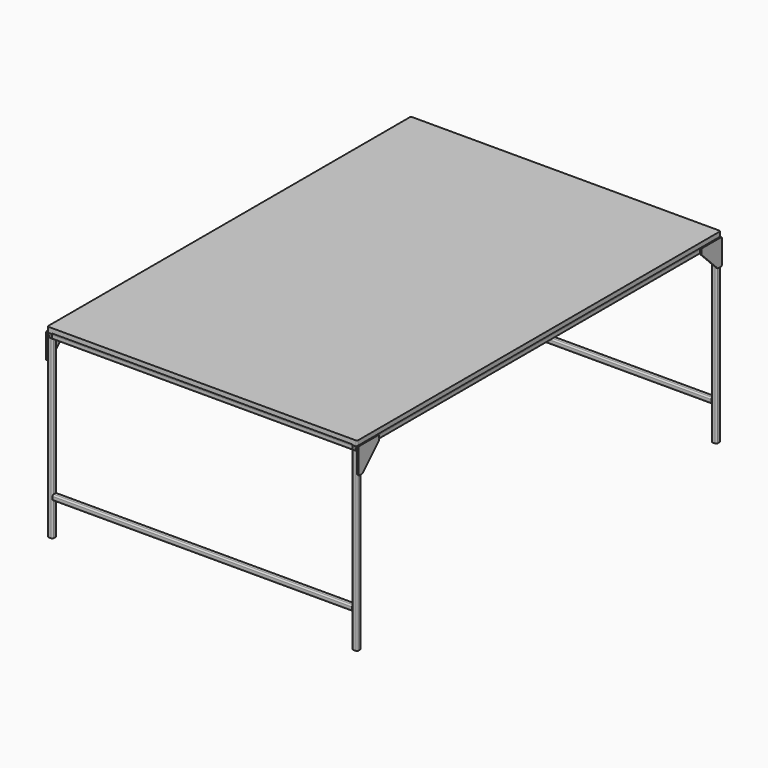
from build123d import *

# Parameters (mm, degrees)
F1_DEPTH  = 880
F4_DEPTH  = 1160
F8_DEPTH  = 680
F13_DEPTH = 5
F14_R     = 5
F17_DEPTH = 5
F18_R     = 5
F21_DEPTH = 850
F23_W     = 1200
F23_H     = 1760
F24_DEPTH = 18
F25_R     = 5


with BuildPart() as f1:
    # F0 (on Front) → F1 (new body, symmetric)
    with BuildSketch(Plane.XZ):
        with BuildLine():
            Line((595, 20), (585, 20))
            ThreePointArc((585, 20), (581.464466, 18.535534), (580, 15))
            Line((580, 15), (580, 5))
            ThreePointArc((580, 5), (581.464466, 1.464466), (585, 0))
            Line((585, 0), (595, 0))
            ThreePointArc((595, 0), (598.535534, 1.464466), (600, 5))
            Line((600, 5), (600, 15))
            ThreePointArc((600, 15), (598.535534, 18.535534), (595, 20))
        make_face()
        with BuildLine():
            ThreePointArc((582.5, 15), (583.232233, 16.767767), (585, 17.5))
            Line((585, 17.5), (595, 17.5))
            ThreePointArc((595, 17.5), (596.767767, 16.767767), (597.5, 15))
            Line((597.5, 15), (597.5, 5))
            ThreePointArc((597.5, 5), (596.767767, 3.232233), (595, 2.5))
            Line((595, 2.5), (585, 2.5))
            ThreePointArc((585, 2.5), (583.232233, 3.232233), (582.5, 5))
            Line((582.5, 5), (582.5, 15))
        make_face(mode=Mode.SUBTRACT)
    extrude(amount=F1_DEPTH, both=True)


with BuildPart() as f2_1:
    # F2: copy of F1
    add(f1.part.moved(Location((-1180, 0, 0))))


with BuildPart() as f4:
    # F3 (on face) → F4 (new body)
    with BuildSketch(Plane.YZ.offset(-580)):
        with BuildLine():
            Line((-865, 20), (-875, 20))
            ThreePointArc((-875, 20), (-878.535534, 18.535534), (-880, 15))
            Line((-880, 15), (-880, 5))
            ThreePointArc((-880, 5), (-878.535534, 1.464466), (-875, 0))
            Line((-875, 0), (-865, 0))
            ThreePointArc((-865, 0), (-861.464466, 1.464466), (-860, 5))
            Line((-860, 5), (-860, 15))
            ThreePointArc((-860, 15), (-861.464466, 18.535534), (-865, 20))
        make_face()
        with BuildLine():
            Line((-877.5, 5), (-877.5, 15))
            ThreePointArc((-877.5, 15), (-876.767767, 16.767767), (-875, 17.5))
            Line((-875, 17.5), (-865, 17.5))
            ThreePointArc((-865, 17.5), (-863.232233, 16.767767), (-862.5, 15))
            Line((-862.5, 15), (-862.5, 5))
            ThreePointArc((-862.5, 5), (-863.232233, 3.232233), (-865, 2.5))
            Line((-865, 2.5), (-875, 2.5))
            ThreePointArc((-875, 2.5), (-876.767767, 3.232233), (-877.5, 5))
        make_face(mode=Mode.SUBTRACT)
    extrude(amount=F4_DEPTH)


with BuildPart() as f5_1:
    # F5: copy of F4
    add(f4.part.moved(Location((0, 1740, 0))))


with BuildPart() as f6_1:
    # F6: copy of F4
    add(f4.part.moved(Location((0, 870, 0))))


with BuildPart() as f8:
    # F7 (on face) → F8 (new body)
    with BuildSketch(Plane(origin=(0, 0, 0), x_dir=(1, 0, 0), z_dir=(0, 0, -1))):
        with BuildLine():
            Line((585, -880), (595, -880))
            ThreePointArc((595, -880), (598.535534, -878.535534), (600, -875))
            Line((600, -875), (600, -865))
            ThreePointArc((600, -865), (598.535534, -861.464466), (595, -860))
            Line((595, -860), (585, -860))
            ThreePointArc((585, -860), (581.464466, -861.464466), (580, -865))
            Line((580, -865), (580, -875))
            ThreePointArc((580, -875), (581.464466, -878.535534), (585, -880))
        make_face()
        with BuildLine():
            ThreePointArc((585, -877.5), (583.232233, -876.767767), (582.5, -875))
            Line((582.5, -875), (582.5, -865))
            ThreePointArc((582.5, -865), (583.232233, -863.232233), (585, -862.5))
            Line((585, -862.5), (595, -862.5))
            ThreePointArc((595, -862.5), (596.767767, -863.232233), (597.5, -865))
            Line((597.5, -865), (597.5, -875))
            ThreePointArc((597.5, -875), (596.767767, -876.767767), (595, -877.5))
            Line((595, -877.5), (585, -877.5))
        make_face(mode=Mode.SUBTRACT)
    extrude(amount=F8_DEPTH)


with BuildPart() as f9_1:
    # F9: copy of F8
    add(f8.part.moved(Location((-1180, 0, 0))))


with BuildPart() as f10_1:
    # F10: copy of F9_1
    add(f9_1.part.moved(Location((0, -1740, 0))))


with BuildPart() as f10_2:
    # F10: copy of F8
    add(f8.part.moved(Location((0, -1740, 0))))


with BuildPart() as f11_1:
    # F11: copy of F5_1
    add(f5_1.part.moved(Location((0, 0, -550))))


with BuildPart() as f11_2:
    # F11: copy of F4
    add(f4.part.moved(Location((0, 0, -550))))


with BuildPart() as f13:
    # F12 (on face) → F13 (new body)
    with BuildSketch(Plane.YZ.offset(600)):
        Polygon((-780, 20), (-880, 20), (-880, -80), (-860, -80), (-780, 0), align=None)
    extrude(amount=F13_DEPTH)

    # F14
    f14_edges = [f13.edges().sort_by_distance(p)[0] for p in [
        (602.5, -880, 20),
        (602.5, -880, -80),
        (602.5, -780, 20),
        (602.5, -780, 0),
        (602.5, -860, -80),
    ]]
    fillet(f14_edges, radius=F14_R)


with BuildPart() as f15_1:
    # F15: copy of F13
    add(f13.part.moved(Location((-1205, 0, 0))))


with BuildPart() as f17:
    # F16 (on face) → F17 (new body)
    with BuildSketch(Plane.YZ.offset(600)):
        Polygon((880, -80), (880, 20), (780, 20), (780, 0), (860, -80), align=None)
    extrude(amount=F17_DEPTH)

    # F18
    f18_edges = [f17.edges().sort_by_distance(p)[0] for p in [
        (602.5, 880, 20),
        (602.5, 880, -80),
        (602.5, 780, 20),
        (602.5, 780, 0),
        (602.5, 860, -80),
    ]]
    fillet(f18_edges, radius=F18_R)


with BuildPart() as f19_1:
    # F19: copy of F17
    add(f17.part.moved(Location((-1205, 0, 0))))


with BuildPart() as f21:
    # F20 (on face) → F21 (new body)
    with BuildSketch(Plane.XZ.offset(-860)):
        with BuildLine():
            Line((5, 20), (-5, 20))
            ThreePointArc((-5, 20), (-8.535534, 18.535534), (-10, 15))
            Line((-10, 15), (-10, 5))
            ThreePointArc((-10, 5), (-8.535534, 1.464466), (-5, 0))
            Line((-5, 0), (5, 0))
            ThreePointArc((5, 0), (8.535534, 1.464466), (10, 5))
            Line((10, 5), (10, 15))
            ThreePointArc((10, 15), (8.535534, 18.535534), (5, 20))
        make_face()
        with BuildLine():
            ThreePointArc((-7.5, 15), (-6.767767, 16.767767), (-5, 17.5))
            Line((-5, 17.5), (5, 17.5))
            ThreePointArc((5, 17.5), (6.767767, 16.767767), (7.5, 15))
            Line((7.5, 15), (7.5, 5))
            ThreePointArc((7.5, 5), (6.767767, 3.232233), (5, 2.5))
            Line((5, 2.5), (-5, 2.5))
            ThreePointArc((-5, 2.5), (-6.767767, 3.232233), (-7.5, 5))
            Line((-7.5, 5), (-7.5, 15))
        make_face(mode=Mode.SUBTRACT)
    extrude(amount=F21_DEPTH)


with BuildPart() as f22_1:
    # F22: copy of F21
    add(f21.part.moved(Location((0, -870, 0))))


with BuildPart() as f24:
    # F23 (on face) → F24 (new body)
    with BuildSketch(Plane.XY.offset(20)):
        Rectangle(F23_W, F23_H)
    extrude(amount=F24_DEPTH)

    # F25
    f25_edges = [f24.edges().sort_by_distance(p)[0] for p in [
        (600, 880, 29),
        (600, -880, 29),
        (-600, 880, 29),
        (-600, -880, 29),
    ]]
    fillet(f25_edges, radius=F25_R)


solid = Compound([f1.part, f2_1.part, f4.part, f5_1.part, f6_1.part, f8.part, f9_1.part, f10_1.part, f10_2.part, f11_1.part, f11_2.part, f13.part, f15_1.part, f17.part, f19_1.part, f21.part, f22_1.part, f24.part])
